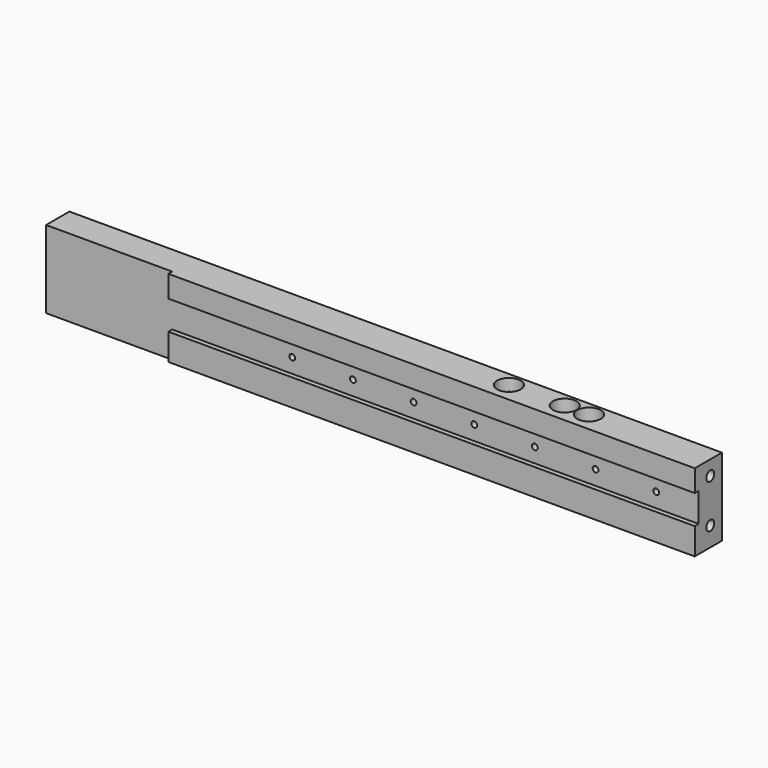
from build123d import *

# Parameters (mm, degrees)
F0_W            = 269
F0_H            = 32
F1_DEPTH        = 12
F2_W            = 217
F2_H            = 9
F2_H_2          = 11
F3_DEPTH        = 2
F5_D            = 2.4
F5_DEPTH        = 8
F5_TIP          = 0.7210327428
F7_D            = 4.1
F7_DEPTH        = 8
F7_TIP          = 1.231764269
F9_D            = 4.1
F9_DEPTH        = 8
F9_TIP          = 1.231764269
F11_D           = 4.1
F11_CBORE_D     = 9.75
F11_CBORE_DEPTH = 5


with BuildPart() as f1:
    # F0 (on Front) → F1 (new body)
    with BuildSketch(Plane.XZ):
        Rectangle(F0_W, F0_H)
    extrude(amount=F1_DEPTH)

    # F2 (on face) → F3 (join)
    with BuildSketch(Plane.XZ.offset(12)):
        with Locations((26, 11.5)):
            Rectangle(F2_W, F2_H)
        with Locations((26, -10.5)):
            Rectangle(F2_W, F2_H_2)
    extrude(amount=F3_DEPTH)

    # F5
    with Locations(Plane.XZ.offset(12)):
        with Locations((-33, 1), (-8, 1), (17, 1), (42, 1), (67, 1), (92, 1), (117, 1)):
            Hole(F5_D / 2, depth=F5_DEPTH)
            with Locations((0, 0, -(F5_DEPTH + F5_TIP / 2))):  # 118° drill point
                Cone(0, F5_D / 2, F5_TIP, mode=Mode.SUBTRACT)

    # F7
    with Locations(Plane.YZ.offset(134.5)):
        with Locations((-6, 10), (-6, -8)):
            Hole(F7_D / 2, depth=F7_DEPTH)
            with Locations((0, 0, -(F7_DEPTH + F7_TIP / 2))):  # 118° drill point
                Cone(0, F7_D / 2, F7_TIP, mode=Mode.SUBTRACT)

    # F9
    with Locations(Plane(origin=(-134.5, 0, 0), x_dir=(0, -1, 0), z_dir=(-1, 0, 0))):
        with Locations((6, 10), (6, -8)):
            Hole(F9_D / 2, depth=F9_DEPTH)
            with Locations((0, 0, -(F9_DEPTH + F9_TIP / 2))):  # 118° drill point
                Cone(0, F9_D / 2, F9_TIP, mode=Mode.SUBTRACT)

    # F11 (through all)
    with Locations(Plane.XY.offset(16)):
        with Locations((51.5, -6), (74.5, -6), (84.5, -6)):
            CounterBoreHole(F11_D / 2, F11_CBORE_D / 2, F11_CBORE_DEPTH)


solid = f1.part
